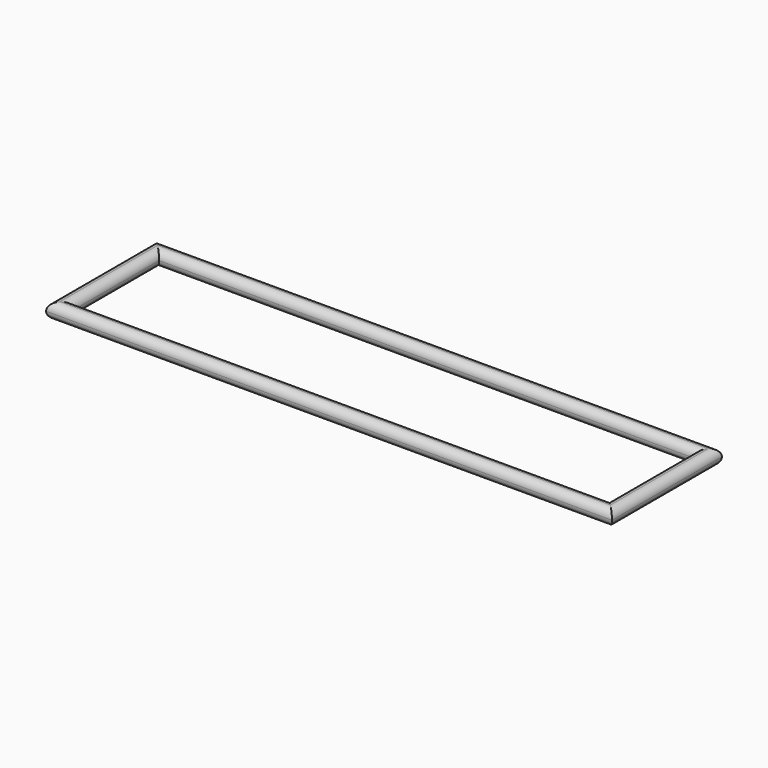
from build123d import *

# Parameters (mm, degrees)
F0_W     = 700
F0_H     = 170
F0_W_2   = 661.9
F0_H_2   = 131.9
F1_DEPTH = 19.05
F2_R     = 9.51


with BuildPart() as f1:
    # F0 (on Top) → F1 (new body)
    with BuildSketch(Plane.XY):
        Rectangle(F0_W, F0_H)
        Rectangle(F0_W_2, F0_H_2, mode=Mode.SUBTRACT)
    extrude(amount=F1_DEPTH)

    # F2
    f2_edges = [f1.edges().sort_by_distance(p)[0] for p in [
        (0, -85, 0),
        (350, 0, 0),
        (0, 85, 0),
        (-350, 0, 0),
        (-330.95, 0, 0),
        (0, 65.95, 0),
        (0, -65.95, 0),
        (330.95, 0, 0),
        (0, -85, 19.05),
        (350, 0, 19.05),
        (0, 65.95, 19.05),
        (-330.95, 0, 19.05),
        (-350, 0, 19.05),
        (0, 85, 19.05),
        (0, -65.95, 19.05),
        (330.95, 0, 19.05),
    ]]
    fillet(f2_edges, radius=F2_R)


solid = f1.part
